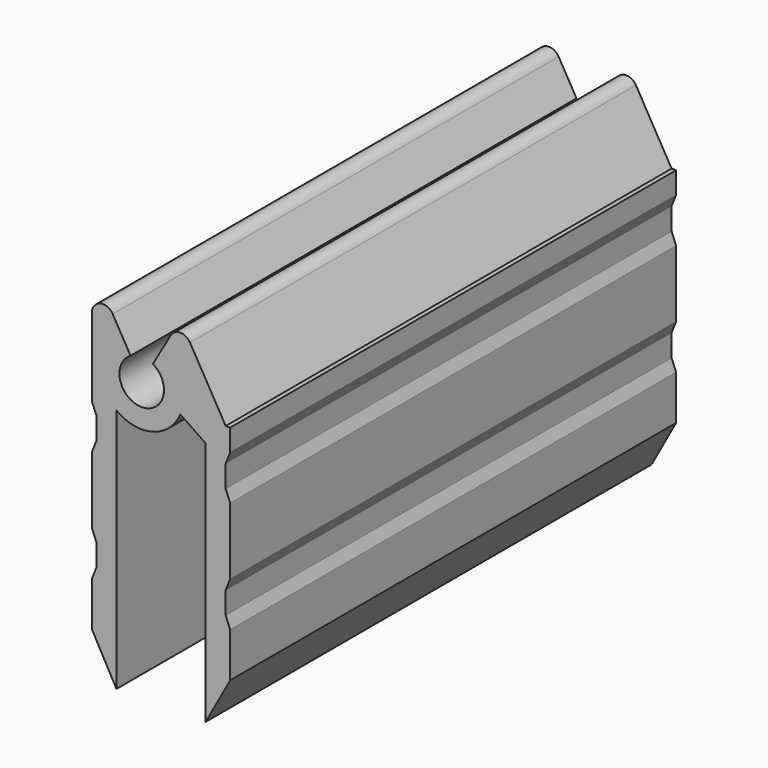
from build123d import *

# Parameters (mm, degrees)
F1_DEPTH = 25


with BuildPart() as f1:
    # F0 (on Front) → F1 (new body)
    with BuildSketch(Plane.XZ):
        with BuildLine():
            Line((-2, -7.5), (-2, 3.5))
            ThreePointArc((-2, 3.5), (-0.376864, 3.184528), (0.866667, 4.274356))
            Line((0.866667, 4.274356), (2, 3.5))
            Line((2, 3.5), (2, -7.5))
            Line((2, -7.5), (3.1, -5.5))
            Line((3.1, -5.5), (3.1, -3.5))
            Line((3.1, -3.5), (2.9, -3))
            Line((2.9, -3), (2.9, -2))
            Line((2.9, -2), (3.1, -1.5))
            Line((3.1, -1.5), (3.1, 1.5))
            Line((3.1, 1.5), (2.9, 2))
            Line((2.9, 2), (2.9, 3))
            Line((2.9, 3), (3.1, 3.5))
            Line((3.1, 3.5), (3.1, 4.478163))
            Line((3.1, 4.478163), (2.9, 4.478163))
            Line((2.9, 4.478163), (1.299679, 7.25))
            ThreePointArc((1.299679, 7.25), (0.866667, 7.5), (0.433654, 7.25))
            Line((0.433654, 7.25), (-0.366667, 5.863804))
            ThreePointArc((-0.366667, 5.863804), (-0.866667, 3.997779), (-1.366667, 5.863804))
            Line((-1.366667, 5.863804), (-2.166987, 7.25))
            ThreePointArc((-2.166987, 7.25), (-2.72941, 7.482963), (-3.1, 7))
            Line((-3.1, 7), (-3.1, 3.5))
            Line((-3.1, 3.5), (-2.9, 3))
            Line((-2.9, 3), (-2.9, 2))
            Line((-2.9, 2), (-3.1, 1.5))
            Line((-3.1, 1.5), (-3.1, -1.5))
            Line((-3.1, -1.5), (-2.9, -2))
            Line((-2.9, -2), (-2.9, -3))
            Line((-2.9, -3), (-3.1, -3.5))
            Line((-3.1, -3.5), (-3.1, -5.5))
            Line((-3.1, -5.5), (-2, -7.5))
        make_face()
    extrude(amount=F1_DEPTH)


solid = f1.part
